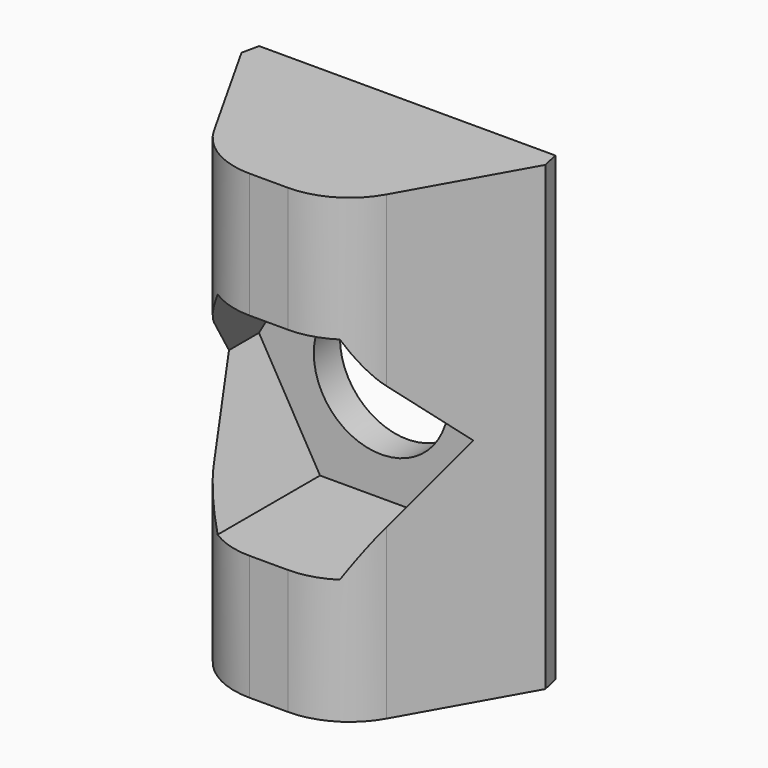
from build123d import *

# Parameters (mm, degrees)
PAD_DEPTH       = 12
POCKET_DEPTH    = 3.65
SKETCH002_R     = 1.75
POCKET001_DEPTH = 5


with BuildPart() as part:
    # Sketch → Pad (new body)
    with BuildSketch(Plane.XY):
        with BuildLine():
            Line((-3.85, 8.2), (3.85, 8.2))
            Line((3.85, 8.2), (3.95, 7.75))
            Line((3.95, 7.75), (2.242615, 4.718526))
            ThreePointArc((0.5, 3.7), (1.50922, 3.973305), (2.242615, 4.718526))
            Line((0.5, 3.7), (-0.5, 3.7))
            ThreePointArc((-2.242615, 4.718526), (-1.50922, 3.973305), (-0.5, 3.7))
            Line((-2.242615, 4.718526), (-3.95, 7.75))
            Line((-3.85, 8.2), (-3.95, 7.75))
        make_face()
    extrude(amount=PAD_DEPTH)

    # Sketch001 (on Face7 of Pad) → Pocket (cut)
    with BuildSketch(Plane.XZ.offset(-3.7)):
        Polygon((-3.175426, 6), (-1.587713, 3.25), (1.587713, 3.25), (3.175426, 6), (1.587713, 8.75), (-1.587713, 8.75), align=None)
    extrude(amount=-POCKET_DEPTH, mode=Mode.SUBTRACT)

    # Sketch002 (on Face9 of Pocket) → Pocket001 (cut)
    with BuildSketch(Plane(origin=(0, 8.2, 0), x_dir=(-1, 0, 0), z_dir=(0, 1, 0))):
        with Locations((0, 6)):
            Circle(SKETCH002_R)
    extrude(amount=-POCKET001_DEPTH, mode=Mode.SUBTRACT)


solid = part.part
